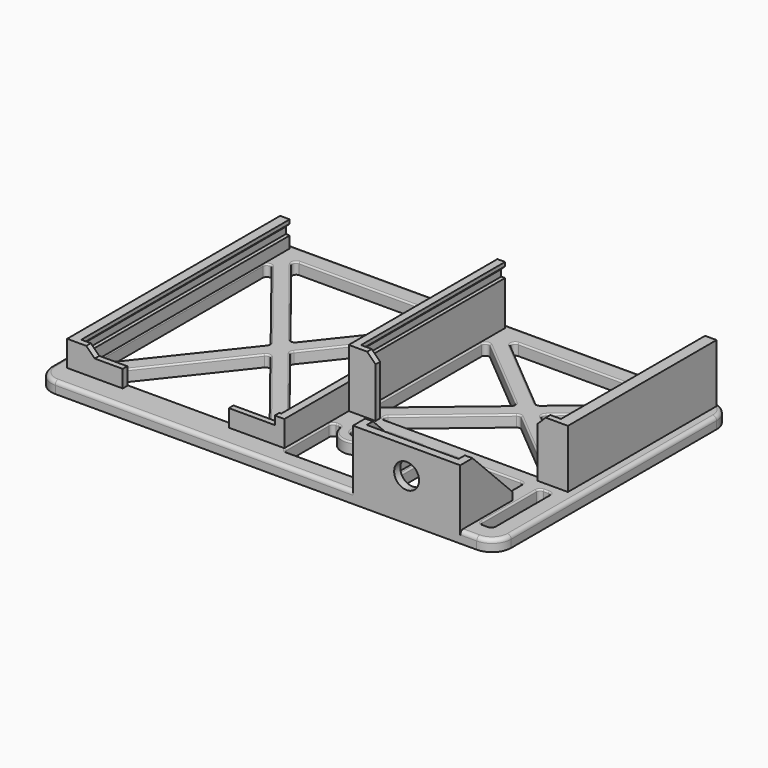
from build123d import *

# Parameters (mm, degrees)
SKETCH_W          = 120
SKETCH_H          = 77
PAD_DEPTH         = 3
PAD001_DEPTH      = 31
PAD001_DEPTH_BACK = 37
PAD002_DEPTH      = 1.5
PAD003_DEPTH      = 10
PAD003_DEPTH_BACK = 37
PAD004_DEPTH      = 1.5
SKETCH005_W       = 28
SKETCH005_H       = 15
SKETCH005_R       = 3.25
PAD005_DEPTH      = 2
FILLET_R          = 5
SKETCH006_R       = 1.75
POCKET_DEPTH      = 18.201
PAD006_DEPTH      = 2
PAD007_DEPTH      = 2
SKETCH009_W       = 22
SKETCH009_H       = 19.6
SKETCH009_W_2     = 3.3
POCKET001_DEPTH   = 3.001
FILLET001_R       = 1
FILLET002_R       = 1
FILLET003_R       = 0.4


with BuildPart() as part:
    # Sketch → Pad (new body)
    with BuildSketch(Plane.XY):
        Rectangle(SKETCH_W, SKETCH_H)
    extrude(amount=PAD_DEPTH)

    # Sketch001 → Pad001 (join, two sides)
    with BuildSketch(Plane.XZ) as pad001_sk:
        Polygon((-56.7, 3), (-56.7, 9.7), (-54.2, 9.7), (-54.2, 8.7), (-55.2, 7.7), (-55.2, 6), (-54.2, 6), (-54.2, 3), align=None)
        Polygon((-2, 3), (-2, 6), (-1, 6), (-1, 7.7), (-2, 8.7), (-2, 9.7), (0, 9.7), (0, 3), align=None)
    extrude(amount=PAD001_DEPTH)
    extrude(pad001_sk.sketch, amount=-PAD001_DEPTH_BACK)

    # Sketch002 (on Face13 of Pad001) → Pad002 (join)
    with BuildSketch(Plane.XZ.offset(31)):
        Polygon((-56.7, 3), (-56.7, 9.7), (-51.7, 9.7), (-49.5, 7.5), (-42.2, 7.5), (-42.2, 3), align=None)
        Polygon((0, 3), (0, 9.7), (-2.5, 9.7), (-2.5, 7.5), (-14.5, 7.5), (-14.5, 3), align=None)
    extrude(amount=PAD002_DEPTH)

    # Sketch003 → Pad003 (join, two sides)
    with BuildSketch(Plane.XZ) as pad003_sk:
        Polygon((0, 3), (0, 18.2), (2, 18.2), (2, 17.2), (1, 16.2), (1, 14.5), (2, 14.5), (2, 3), align=None)
        Polygon((54.2, 18.2), (57.2, 18.2), (57.2, 3), (54.2, 3), (54.2, 14.5), (55.2, 14.5), (55.2, 16.2), (54.2, 17.2), align=None)
    extrude(amount=PAD003_DEPTH)
    extrude(pad003_sk.sketch, amount=-PAD003_DEPTH_BACK)

    # Sketch004 (on Face8 of Pad003) → Pad004 (join)
    with BuildSketch(Plane.XZ.offset(10)):
        Polygon((0, 3), (0, 18.2), (4.8, 18.2), (7, 16), (7, 3), align=None)
        Polygon((51.4, 18.2), (57.2, 18.2), (57.2, 3), (49.2, 3), (49.2, 16), align=None)
    extrude(amount=PAD004_DEPTH)

    # Sketch005 (on Face6 of Pad004) → Pad005 (join)
    with BuildSketch(Plane.XZ.offset(38.5)):
        with Locations((36.7, 10.5)):
            Rectangle(SKETCH005_W, SKETCH005_H)
        with Locations((36.7, 11)):
            Circle(SKETCH005_R, mode=Mode.SUBTRACT)
    extrude(amount=-PAD005_DEPTH)

    # Fillet
    fillet_edges = [part.edges().sort_by_distance(p)[0] for p in [
        (-60, -38.5, 1.5),
        (60, -38.5, 1.5),
        (60, 38.5, 1.5),
        (-60, 38.5, 1.5),
    ]]
    fillet(fillet_edges, radius=FILLET_R)

    # Sketch006 → Pocket (cut, through all)
    with BuildSketch(Plane.XY):
        with Locations((51, 33)):
            Circle(SKETCH006_R)
        with Locations((7.5, -17.5)):
            Circle(SKETCH006_R)
    extrude(amount=POCKET_DEPTH, mode=Mode.SUBTRACT)

    # Sketch007 (on Face13 of Pocket) → Pad006 (join)
    with BuildSketch(Plane(origin=(22.7, 0, 0), x_dir=(0, -1, 0), z_dir=(-1, 0, 0))):
        Polygon((36.5, 18), (34.5, 18), (21.5, 5), (21.5, 3), (36.5, 3), align=None)
    extrude(amount=-PAD006_DEPTH)

    # Sketch008 (on Face18 of Pad006) → Pad007 (join)
    with BuildSketch(Plane.YZ.offset(50.7)):
        Polygon((-36.5, 18), (-34.5, 18), (-21.5, 5), (-21.5, 3), (-36.5, 3), align=None)
    extrude(amount=-PAD007_DEPTH)

    # Sketch009 (on Face5 of Pad007) → Pocket001 (cut, through all)
    with BuildSketch(Plane.XY.offset(3)):
        Polygon((-54, 30.844936), (-30.799562, 1.5), (-54, -27.844936), align=None)
        Polygon((-51, 33.5), (-28.25, 4.724798), (-5.5, 33.5), align=None)
        Polygon((-2.5, 30.844936), (-25.700438, 1.5), (-2.5, -27.844936), align=None)
        Polygon((-28.25, -1.724798), (-51, -30.5), (-5.5, -30.5), align=None)
        Polygon((2.5, 30.795664), (2.5, -7.195664), (25.138522, 11.8), align=None)
        Polygon((5.5, -9.9), (51, -9.9), (28.25, 9.189203), align=None)
        with BuildLine():
            Line((5.5, 33.5), (28.25, 14.410797))
            Line((28.25, 14.410797), (47.319085, 30.411397))
            ThreePointArc((46.527864, 33.5), (46.640765, 31.883275), (47.319085, 30.411397))
            Line((5.5, 33.5), (46.527864, 33.5))
        make_face()
        with BuildLine():
            ThreePointArc((51.274043, 28.508352), (52.733015, 28.84709), (54, 29.645898))
            Line((54, 29.645898), (54, -7.195664))
            Line((54, -7.195664), (31.361478, 11.8))
            Line((31.361478, 11.8), (51.274043, 28.508352))
        make_face()
        with BuildLine():
            Line((10.2, -13.9), (21.7, -13.9))
            Line((21.7, -13.9), (21.7, -33.5))
            Line((21.7, -33.5), (0.5, -33.5))
            Line((0.5, -17.5), (0.5, -33.5))
            Line((3, -17.5), (0.5, -17.5))
            ThreePointArc((3, -17.5), (9.512461, -21.524922), (10.2, -13.9))
        make_face()
        with Locations((36.7, -23.7)):
            Rectangle(SKETCH009_W, SKETCH009_H)
        with Locations((53.35, -23.7)):
            Rectangle(SKETCH009_W_2, SKETCH009_H)
    extrude(amount=-POCKET001_DEPTH, mode=Mode.SUBTRACT)

    # Fillet001
    fillet001_edges = [part.edges().sort_by_distance(p)[0] for p in [
        (2.5, -7.195664, 1.5),
        (47.319085, 30.411397, 1.5),
        (2.5, 30.795664, 1.5),
        (21.7, -33.5, 1.5),
        (47.7, -33.5, 1.5),
        (-28.25, -1.724798, 1.5),
        (-2.5, -27.844936, 1.5),
        (31.361478, 11.8, 1.5),
        (25.138522, 11.8, 1.5),
        (-5.5, -30.5, 1.5),
        (47.7, -13.9, 1.5),
        (21.7, -13.9, 1.5),
        (55, -13.9, 1.5),
        (-25.700438, 1.5, 1.5),
        (-2.5, 30.844936, 1.5),
        (-51, 33.5, 1.5),
        (51.7, -13.9, 1.5),
        (51.274043, 28.508352, 1.5),
        (46.527864, 33.5, 1.5),
        (-30.799562, 1.5, 1.5),
        (25.7, -13.9, 1.5),
        (0.5, -17.5, 1.5),
        (10.2, -13.9, 1.5),
        (-28.25, 4.724798, 1.5),
        (-51, -30.5, 1.5),
        (54, 29.645898, 1.5),
        (-54, -27.844936, 1.5),
        (0.5, -33.5, 1.5),
        (25.7, -33.5, 1.5),
        (28.25, 14.410797, 1.5),
        (51.7, -33.5, 1.5),
        (5.5, -9.9, 1.5),
        (5.5, 33.5, 1.5),
        (28.25, 9.189203, 1.5),
        (3, -17.5, 1.5),
        (55, -33.5, 1.5),
        (54, -7.195664, 1.5),
        (51, -9.9, 1.5),
        (-5.5, 33.5, 1.5),
        (-54, 30.844936, 1.5),
    ]]
    fillet(fillet001_edges, radius=FILLET001_R)

    # Fillet002
    fillet002_edges = [part.edges().sort_by_distance(p)[0] for p in [
        (-16.15, -38.5, 3),
    ]]
    fillet(fillet002_edges, radius=FILLET002_R)

    # Fillet003
    fillet003_edges = [part.edges().sort_by_distance(p)[0] for p in [
        (11.1, -33.5, 3),
        (-14.747277, 15.35404, 3),
        (-28.25, -30.5, 3),
        (-28.25, 33.5, 3),
        (-41.752723, 15.35404, 3),
        (26.885143, 33.5, 3),
        (14.184173, 20.991639, 3),
        (17.605975, 0.257952, 3),
        (41.654856, 20.437028, 3),
        (36.7, -13.9, 3),
        (51.7, -23.7, 3),
        (5.75, -17.5, 3),
        (49.25, 33, 3),
    ]]
    fillet(fillet003_edges, radius=FILLET003_R)


solid = part.part
